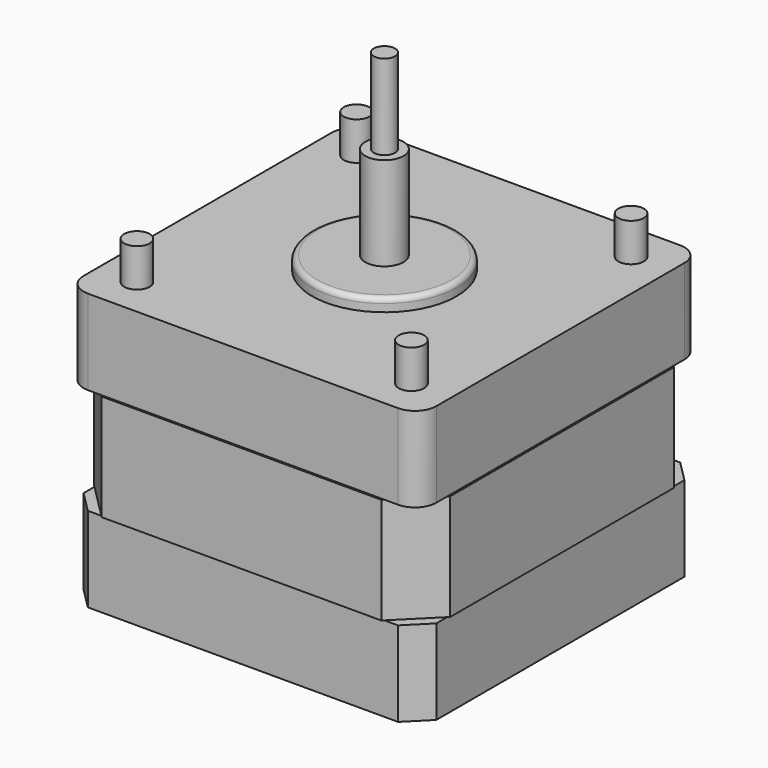
from build123d import *

# Parameters (mm, degrees)
CYLINDER018_R     = 1.5
CYLINDER018_DEPTH = 10
CYLINDER017_R     = 1.5
CYLINDER017_DEPTH = 10
CYLINDER019_R     = 1.5
CYLINDER019_DEPTH = 10
CYLINDER020_R     = 1.5
CYLINDER020_DEPTH = 10
CYLINDER014_R     = 8.5
CYLINDER014_DEPTH = 32
FILLET007_R       = 0.6
CYLINDER015_R     = 8.5
CYLINDER015_DEPTH = 3
BOX012_W          = 44.5
BOX012_H          = 44.5
BOX012_DEPTH      = 12.5
BOX011_W          = 41.5
BOX011_H          = 41.5
BOX011_DEPTH      = 32.5
FILLET006_R       = 2.5
CHAMFER005_SIZE   = 2.5
BOX013_W          = 41.9
BOX013_H          = 41.9
BOX013_DEPTH      = 12.5
CHAMFER006_SIZE   = 4.5
CYLINDER016_R     = 1.25
CYLINDER016_DEPTH = 10
CYLINDER013_R     = 2.25
CYLINDER013_DEPTH = 45


with BuildPart() as tornillo013:
    # Cylinder018 → Cylinder018 (new body)
    with BuildSketch(Plane(origin=(-50.4, -6.1, 27), x_dir=(1, 0, 0), z_dir=(0, 0, 1))):
        Circle(CYLINDER018_R)
    extrude(amount=CYLINDER018_DEPTH)


with BuildPart() as tornillo011:
    # Cylinder017 → Cylinder017 (new body)
    with BuildSketch(Plane(origin=(-18.1, -6.1, 27), x_dir=(1, 0, 0), z_dir=(0, 0, 1))):
        Circle(CYLINDER017_R)
    extrude(amount=CYLINDER017_DEPTH)


with BuildPart() as tornillo014:
    # Cylinder019 → Cylinder019 (new body)
    with BuildSketch(Plane(origin=(-50.4, -38.4, 27), x_dir=(1, 0, 0), z_dir=(0, 0, 1))):
        Circle(CYLINDER019_R)
    extrude(amount=CYLINDER019_DEPTH)


with BuildPart() as tornillo016:
    # Cylinder020 → Cylinder020 (new body)
    with BuildSketch(Plane(origin=(-18.1, -38.4, 27), x_dir=(1, 0, 0), z_dir=(0, 0, 1))):
        Circle(CYLINDER020_R)
    extrude(amount=CYLINDER020_DEPTH)


with BuildPart() as fillet007:
    # Cylinder014 → Cylinder014 (new body)
    with BuildSketch(Plane(origin=(-34.2, -22.25, 2), x_dir=(1, 0, 0), z_dir=(0, 0, 1))):
        Circle(CYLINDER014_R)
    extrude(amount=CYLINDER014_DEPTH)

    # Fillet007
    fillet007_edges = [fillet007.edges().sort_by_distance(p)[0] for p in [
        (-42.7, -22.25, 34),
    ]]
    fillet(fillet007_edges, radius=FILLET007_R)


with BuildPart() as cilindro040:
    # Cylinder015 → Cylinder015 (new body)
    with BuildSketch(Plane(origin=(-34.2, -22.25, -1), x_dir=(1, 0, 0), z_dir=(0, 0, 1))):
        Circle(CYLINDER015_R)
    extrude(amount=CYLINDER015_DEPTH)


with BuildPart() as cubo090:
    # Box012 → Box012 (new body)
    with BuildSketch(Plane(origin=(-56, -44, 10), x_dir=(1, 0, 0), z_dir=(0, 0, 1))):
        with Locations((22.25, 22.25)):
            Rectangle(BOX012_W, BOX012_H)
    extrude(amount=BOX012_DEPTH)


with BuildPart() as chamfer005:
    # Box011 → Box011 (new body)
    with BuildSketch(Plane(origin=(-55, -43, 0), x_dir=(1, 0, 0), z_dir=(0, 0, 1))):
        with Locations((20.75, 20.75)):
            Rectangle(BOX011_W, BOX011_H)
    extrude(amount=BOX011_DEPTH)

    # Cut013: cut Cubo090
    add(cubo090.part, mode=Mode.SUBTRACT)

    # Fillet006
    fillet006_edges = [chamfer005.edges().sort_by_distance(p)[0] for p in [
        (-55, -43, 27.5),
        (-55, -1.5, 27.5),
        (-13.5, -1.5, 27.5),
        (-13.5, -43, 27.5),
    ]]
    fillet(fillet006_edges, radius=FILLET006_R)

    # Chamfer005
    chamfer005_edges = [chamfer005.edges().sort_by_distance(p)[0] for p in [
        (-55, -1.5, 5),
        (-55, -43, 5),
        (-13.5, -1.5, 5),
        (-13.5, -43, 5),
    ]]
    chamfer(chamfer005_edges, length=CHAMFER005_SIZE)


with BuildPart() as cut014:
    # Box013 → Box013 (new body)
    with BuildSketch(Plane(origin=(-55.2, -43.2, 10), x_dir=(1, 0, 0), z_dir=(0, 0, 1))):
        with Locations((20.95, 20.95)):
            Rectangle(BOX013_W, BOX013_H)
    extrude(amount=BOX013_DEPTH)

    # Chamfer006
    chamfer006_edges = [cut014.edges().sort_by_distance(p)[0] for p in [
        (-55.2, -43.2, 16.25),
        (-55.2, -1.3, 16.25),
        (-13.3, -43.2, 16.25),
        (-13.3, -1.3, 16.25),
    ]]
    chamfer(chamfer006_edges, length=CHAMFER006_SIZE)

    # Fusion010: union Chamfer005
    add(chamfer005.part)

    # Cut014: cut Cilindro040
    add(cilindro040.part, mode=Mode.SUBTRACT)


with BuildPart() as cilindro041:
    # Cylinder016 → Cylinder016 (new body)
    with BuildSketch(Plane(origin=(-34.2, -22.25, 45), x_dir=(1, 0, 0), z_dir=(0, 0, 1))):
        Circle(CYLINDER016_R)
    extrude(amount=CYLINDER016_DEPTH)


with BuildPart() as obj1:
    # Cylinder013 → Cylinder013 (new body)
    with BuildSketch(Plane(origin=(-34.2, -22.25, 0), x_dir=(1, 0, 0), z_dir=(0, 0, 1))):
        Circle(CYLINDER013_R)
    extrude(amount=CYLINDER013_DEPTH)

    # Fusion011: union Fillet007, Cut014, Cilindro041
    add(fillet007.part)
    add(cut014.part)
    add(cilindro041.part)

    # Fusion012: union tornillo013, tornillo011, tornillo014, tornillo016
    add(tornillo013.part)
    add(tornillo011.part)
    add(tornillo014.part)
    add(tornillo016.part)


with BuildPart() as obj1_1:
    # Fusion012 placement: moved
    add(obj1.part.moved(Location((60, 0, 0))))


solid = obj1_1.part
